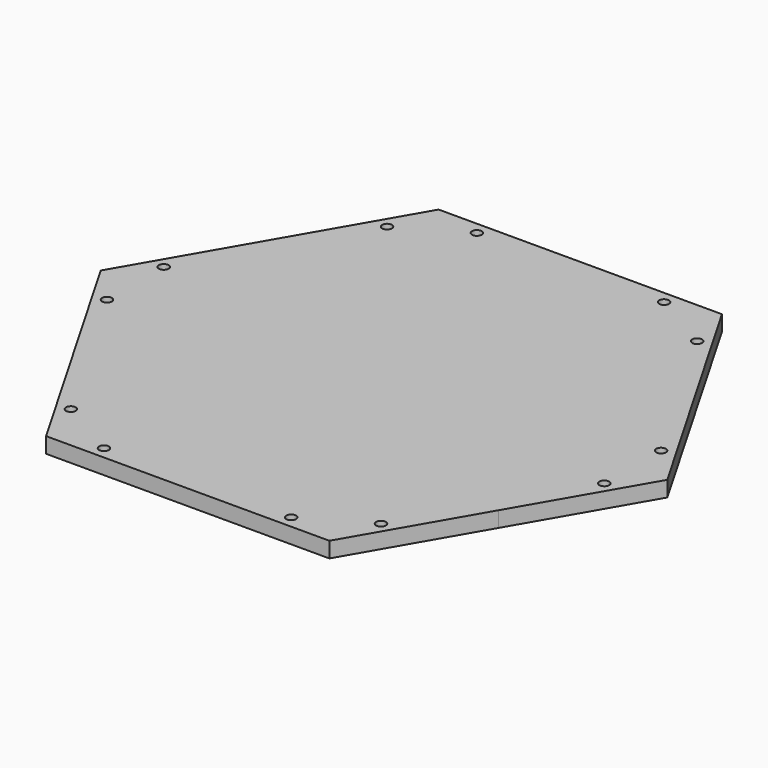
from build123d import *

# Parameters (mm, degrees)
F1_DEPTH = 6.35
F2_R     = 2
F3_DEPTH = 20000


with BuildPart() as f1:
    # F0 (on Top) → F1 (new body)
    with BuildSketch(Plane.XY):
        with BuildLine():
            ThreePointArc((86.6025406101, -49.9999995987), (96.5925826889, -25.8819042865), (100, 0))
            ThreePointArc((100, 0), (96.5925827815, 25.8819039408), (86.602540968, 49.9999989789))
            ThreePointArc((86.602540968, 49.9999989789), (50.0000005105, 86.6025400837), (0, 100))
            ThreePointArc((0, 100), (-50.0000005105, 86.6025400837), (-86.602540968, 49.9999989789))
            ThreePointArc((-86.602540968, 49.9999989789), (-100, 8.447e-07), (-86.6025418126, -49.9999975159))
            ThreePointArc((-86.6025418126, -49.9999975159), (-50.000001242, -86.6025396613), (0, -100))
            ThreePointArc((0, -100), (50.0000002007, -86.6025402626), (86.6025406101, -49.9999995987))
        make_face()
        with BuildLine():
            ThreePointArc((86.602540968, 49.9999989789), (96.5925827815, 25.8819039408), (100, 0))
            ThreePointArc((100, 0), (96.5925826889, -25.8819042865), (86.6025406101, -49.9999995987))
            Line((86.6025406101, -49.9999995987), (115.4700538379, 0))
            Line((115.4700538379, 0), (86.602540968, 49.9999989789))
        make_face()
        with BuildLine():
            ThreePointArc((0, 100), (50.0000005105, 86.6025400837), (86.602540968, 49.9999989789))
            Line((86.602540968, 49.9999989789), (57.735026919, 100))
            Line((57.735026919, 100), (0, 100))
        make_face()
        with BuildLine():
            Line((57.735026919, -100), (86.6025406101, -49.9999995987))
            ThreePointArc((86.6025406101, -49.9999995987), (50.0000002007, -86.6025402626), (0, -100))
            Line((0, -100), (57.735026919, -100))
        make_face()
        with BuildLine():
            ThreePointArc((-86.602540968, 49.9999989789), (-50.0000005105, 86.6025400837), (0, 100))
            Line((0, 100), (-57.735026919, 100))
            Line((-57.735026919, 100), (-86.602540968, 49.9999989789))
        make_face()
        with BuildLine():
            Line((-57.735026919, -100), (0, -100))
            ThreePointArc((0, -100), (-50.000001242, -86.6025396613), (-86.6025418126, -49.9999975159))
            Line((-86.6025418126, -49.9999975159), (-57.735026919, -100))
        make_face()
        with BuildLine():
            ThreePointArc((-86.6025418126, -49.9999975159), (-100, 8.447e-07), (-86.602540968, 49.9999989789))
            Line((-86.602540968, 49.9999989789), (-115.4700538379, 0))
            Line((-115.4700538379, 0), (-86.6025418126, -49.9999975159))
        make_face()
    extrude(amount=F1_DEPTH)

    # F2 (on Top) → F3 (cut)
    with BuildSketch(Plane.XY):
        with Locations((38.148275573, 95)):
            Circle(F2_R)
        with Locations((-38.148275573, 95)):
            Circle(F2_R)
        with Locations((-63.198275573, 80.5373757568)):
            Circle(F2_R)
        with Locations((-101.346551146, 14.4626242432)):
            Circle(F2_R)
        with Locations((-101.346551146, -14.4626242432)):
            Circle(F2_R)
        with Locations((-63.198275573, -80.5373757568)):
            Circle(F2_R)
        with Locations((-38.148275573, -95)):
            Circle(F2_R)
        with Locations((38.148275573, -95)):
            Circle(F2_R)
        with Locations((63.198275573, -80.5373757568)):
            Circle(F2_R)
        with Locations((101.346551146, -14.4626242432)):
            Circle(F2_R)
        with Locations((101.346551146, 14.4626242432)):
            Circle(F2_R)
        with Locations((63.198275573, 80.5373757568)):
            Circle(F2_R)
    extrude(amount=F3_DEPTH, mode=Mode.SUBTRACT)


solid = f1.part
